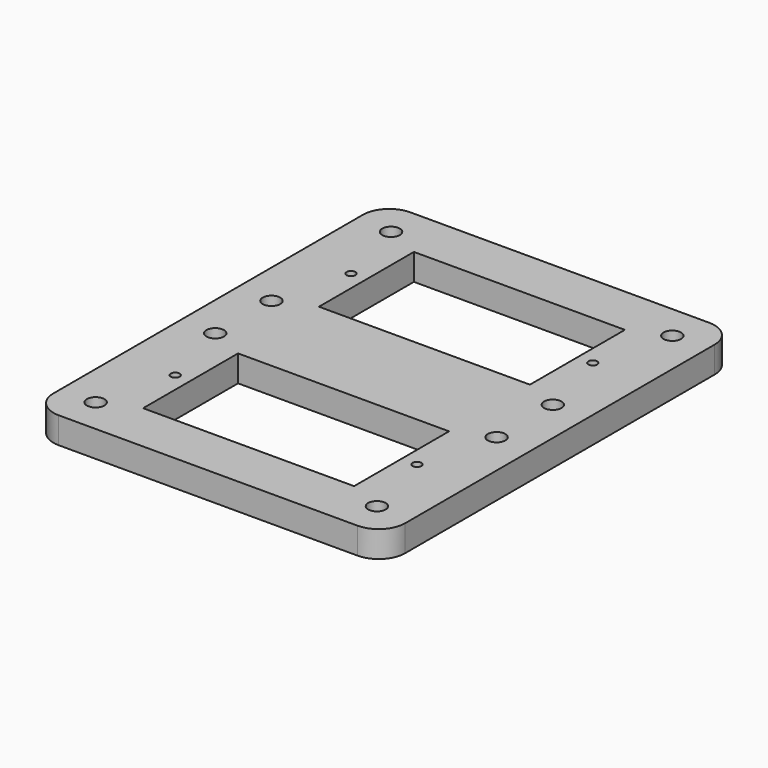
from build123d import *

# Parameters (mm, degrees)
F0_R     = 1
F0_R_2   = 0.5
F0_W     = 24
F0_H     = 13.5
F1_DEPTH = 3
F3_R     = 3


with BuildPart() as f1:
    # F0 (on Top) → F1 (new body)
    with BuildSketch(Plane.XY):
        Polygon((20, -8.5), (20, 12.5), (16, 12.5), (-20, 12.5), (-20, -8.5), (-20, -12.5), (-16, -12.5), (16, -12.5), (20, -12.5), align=None)
        with Locations((-16, -8.5)):
            Circle(F0_R, mode=Mode.SUBTRACT)
        with Locations((16, -8.5)):
            Circle(F0_R, mode=Mode.SUBTRACT)
        with Locations((-13.75, 0)):
            Circle(F0_R_2, mode=Mode.SUBTRACT)
        with Locations((-16, 8.5)):
            Circle(F0_R, mode=Mode.SUBTRACT)
        Rectangle(F0_W, F0_H, mode=Mode.SUBTRACT)
        with Locations((13.75, 0)):
            Circle(F0_R_2, mode=Mode.SUBTRACT)
        with Locations((16, 8.5)):
            Circle(F0_R, mode=Mode.SUBTRACT)
    extrude(amount=F1_DEPTH)

    # F2: F1 across face


with BuildPart() as f1_1:
    add(f1.part)
    add(f1.part.mirror(Plane(origin=(0, -12.5, 1.5), x_dir=(1, 0, 0), z_dir=(0, -1, 0))))

    # F3
    f3_edges = [f1_1.edges().sort_by_distance(p)[0] for p in [
        (-20, -37.5, 1.5),
        (20, -37.5, 1.5),
        (20, 12.5, 1.5),
        (-20, 12.5, 1.5),
    ]]
    fillet(f3_edges, radius=F3_R)


solid = f1_1.part
